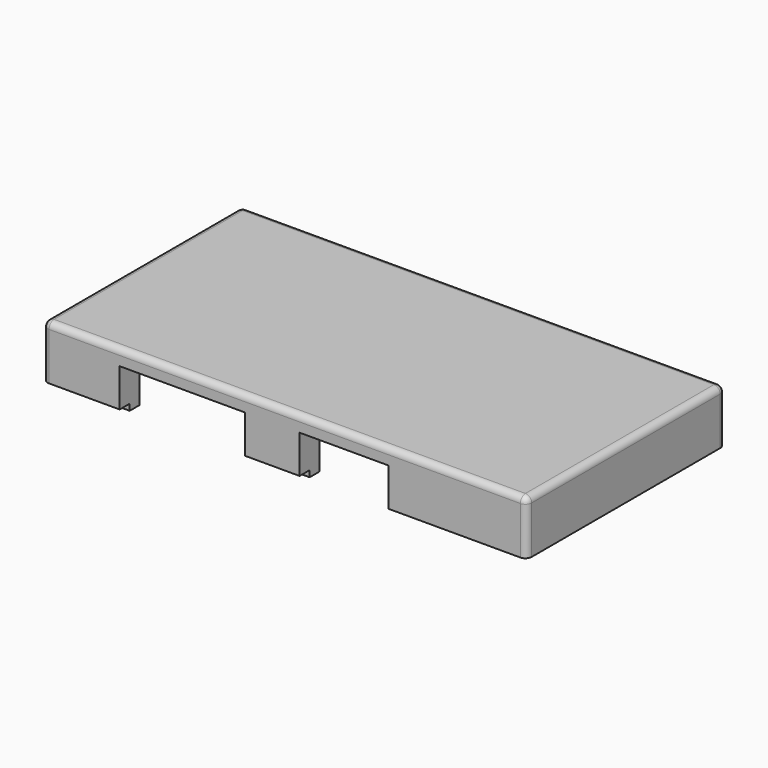
from build123d import *

# Parameters (mm, degrees)
F0_W     = 32.73212
F0_H     = 2.54
F0_W_2   = 11.01766
F1_DEPTH = 1.27
F2_W     = 32.73212
F2_H     = 5.08
F2_W_2   = 11.01766
F3_DEPTH = 7.7089
F4_W     = 97.79
F4_H     = 50.165
F5_DEPTH = 3.175
F6_R     = 1.27


with BuildPart() as f1:
    # F0 (on Top) → F1 (new body)
    with BuildSketch(Plane.XY):
        Polygon((13.35448, 42.545), (13.35448, 45.085), (0, 45.085), (0, 0), (12.98618, 0), (12.98618, 2.54), (2.54, 2.54), (2.54, 42.545), align=None)
        Polygon((73.68624, 42.545), (90.17, 42.545), (90.17, 2.54), (67.35402, 2.54), (67.35402, 0), (92.71, 0), (92.71, 45.085), (73.68624, 45.085), align=None)
        with Locations((47.3202, 43.815)):
            Rectangle(F0_W, F0_H)
        with Locations((43.84421, 1.27)):
            Rectangle(F0_W_2, F0_H)
    extrude(amount=F1_DEPTH)

    # F2 (on face) → F3 (join)
    with BuildSketch(Plane.XY.offset(1.27)):
        Polygon((12.98618, 2.54), (2.54, 2.54), (2.54, 42.545), (13.35448, 42.545), (13.35448, 47.625), (-2.54, 47.625), (-2.54, -2.54), (12.98618, -2.54), align=None)
        Polygon((90.17, 42.545), (90.17, 2.54), (67.35402, 2.54), (67.35402, -2.54), (95.25, -2.54), (95.25, 47.625), (73.68624, 47.625), (73.68624, 42.545), align=None)
        with Locations((47.3202, 45.085)):
            Rectangle(F2_W, F2_H)
        with Locations((43.84421, 0)):
            Rectangle(F2_W_2, F2_H)
    extrude(amount=F3_DEPTH)

    # F4 (on face) → F5 (join)
    with BuildSketch(Plane.XY.offset(8.9789)):
        with Locations((46.355, 22.5425)):
            Rectangle(F4_W, F4_H)
    extrude(amount=F5_DEPTH)

    # F6
    f6_edges = [f1.edges().sort_by_distance(p)[0] for p in [
        (95.25, -2.54, 6.71195),
        (-2.54, -2.54, 6.71195),
        (95.25, 47.625, 6.71195),
        (-2.54, 47.625, 6.71195),
        (-2.54, 22.5425, 12.1539),
        (46.355, -2.54, 12.1539),
        (95.25, 22.5425, 12.1539),
        (46.355, 47.625, 12.1539),
    ]]
    fillet(f6_edges, radius=F6_R)


solid = f1.part
